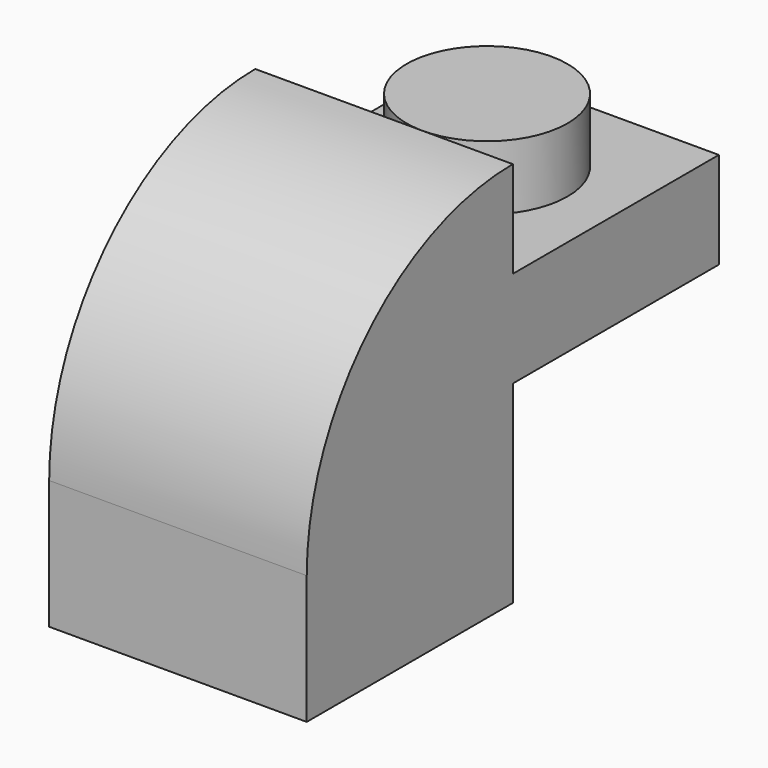
from build123d import *

# Parameters (mm, degrees)
F1_DEPTH  = 4
F3_DEPTH  = 2.5
F5_R      = 2.5
F6_DEPTH  = 2
F7_R      = 1.25
F8_DEPTH  = 4
F10_DEPTH = 2


with BuildPart() as f1:
    # F0 (on Right) → F1 (new body)
    with BuildSketch(Plane.YZ):
        with BuildLine():
            Line((0, 4), (0, 0))
            Line((0, 0), (8, 0))
            Line((8, 0), (8, 6))
            Line((8, 6), (16, 6))
            Line((16, 6), (16, 9))
            Line((16, 9), (8, 9))
            Line((8, 9), (8, 12))
            ThreePointArc((8, 12), (2.343146, 9.656854), (0, 4))
        make_face()
    extrude(amount=-F1_DEPTH)

    # F2 (on face) → F3 (cut)
    with BuildSketch(Plane.YZ):
        with BuildLine():
            Line((6.5, 0), (6.5, 10.324555))
            ThreePointArc((6.5, 10.324555), (2.90098, 8.031129), (1.5, 4))
            Line((1.5, 4), (1.5, 0))
            Line((1.5, 0), (6.5, 0))
        make_face()
    extrude(amount=-F3_DEPTH, mode=Mode.SUBTRACT)

    # F4: F1 across face


with BuildPart() as f1_1:
    add(f1.part)
    add(f1.part.mirror(Plane(origin=(0, 7.388969, 6.713356), x_dir=(0, 1, 0), z_dir=(1, 0, 0))))

    # F5 (on face) → F6 (join)
    with BuildSketch(Plane.XY.offset(9)):
        with Locations((0, 12)):
            Circle(F5_R)
    extrude(amount=F6_DEPTH)

    # F7 (on face) → F8 (cut)
    with BuildSketch(Plane(origin=(0, 0, 6), x_dir=(1, 0, 0), z_dir=(0, 0, -1))):
        with Locations((0, -12)):
            Circle(F7_R)
    extrude(amount=-F8_DEPTH, mode=Mode.SUBTRACT)

    # F9 (on face) → F10 (cut)
    with BuildSketch(Plane(origin=(0, 0, 6), x_dir=(1, 0, 0), z_dir=(0, 0, -1))):
        Polygon((-2.5, -8), (-2.5, -14.5), (2.5, -14.5), (2.5, -8), (0.5, -8), (0.5, -9.5), (-0.5, -9.5), (-0.5, -8), align=None)
    extrude(amount=-F10_DEPTH, mode=Mode.SUBTRACT)


solid = f1_1.part
